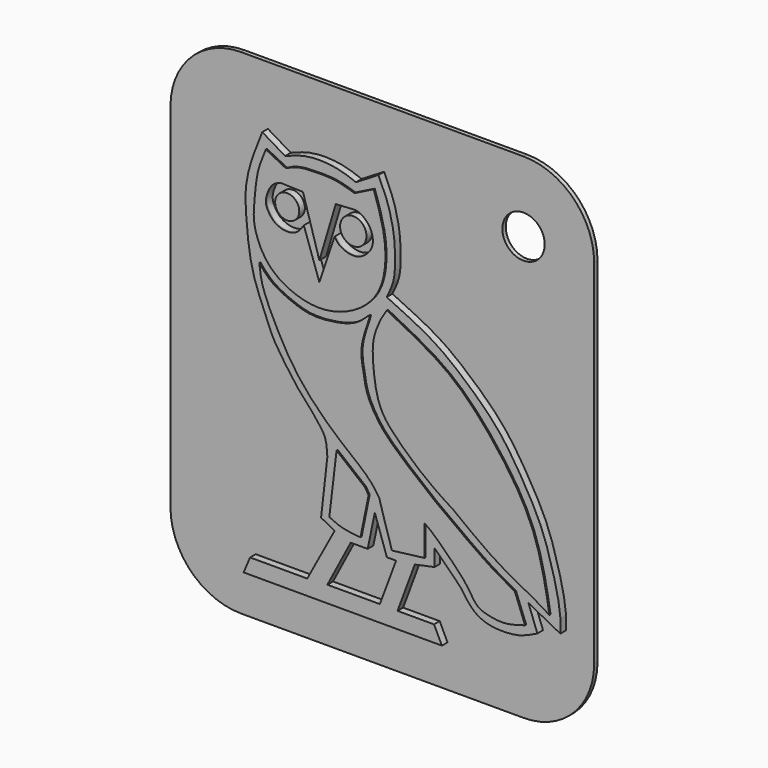
from build123d import *

# Parameters (mm, degrees)
F1_DEPTH  = 1.27
F0_R      = 2.3755805537
F0_R_2    = 1.7436255196
F0_R_3    = 2.1696745923
F0_R_4    = 1.6171802406
F2_DEPTH  = 0.254
F3_DEPTH  = 0.254
F4_DEPTH  = 0.254
F5_DEPTH  = 25.4
F6_DEPTH  = 0.254
F7_W      = 81.28
F7_H      = 81.28
F8_DEPTH  = 0.762
F11_DEPTH = 0.762
F12_R     = 3.81
F13_DEPTH = 25.4


with BuildPart() as f1:
    # F0 (on Front) → F1 (new body)
    with BuildSketch(Plane.XZ):
        with BuildLine():
            Line((-22.4319845438, -30.723689124), (-23.5951635987, -33.4686301649))
            Line((-23.5951635987, -33.4686301649), (12.0620513335, -33.4686301649))
            Line((12.0620513335, -33.4686301649), (10.6545295566, -30.5597539991))
            Line((10.6545295566, -30.5597539991), (4.0860949084, -30.5597539991))
            Line((4.0860949084, -30.5597539991), (7.1826418862, -22.2084578127))
            Line((7.1826418862, -22.2084578127), (10.7483640313, -21.4577801526))
            Line((10.7483640313, -21.4577801526), (10.7483640313, -18.4550676495))
            Line((10.7483640313, -18.4550676495), (15.5339371413, -23.2406407595))
            add(Edge.make_bspline(
                [(15.5339371413, -23.2406407595), (16.2170642467, -24.2737822638), (17.5637495618, -26.3104698458), (20.7889507092, -27.7181511342), (24.5489099064, -27.6458058884), (26.7077016093, -27.1861896151), (28.3604926743, -26.385125921), (29.2338151485, -25.9618498385)],
                knots=[0, 0, 0, 0, 0.2155758073, 0.4249762185, 0.6422123744, 0.8109476866, 1, 1, 1, 1], degree=3))
            Line((29.2338151485, -25.9618498385), (27.6386234909, -21.6454491019))
            Line((27.6386234909, -21.6454491019), (33.362545073, -24.6481634676))
            add(Edge.make_bspline(
                [(33.362545073, -24.6481634676), (33.3983814219, -23.79400888), (33.4774361156, -21.9097508186), (32.7735684058, -18.0164807649), (31.6154622475, -13.7192435111), (29.9932863397, -8.4590985446), (26.3636779879, -1.9734620285), (22.1047336684, 4.6305528517), (15.7507719018, 10.3866892178), (10.4413872747, 14.5950490489), (5.0479724732, 17.133720348), (2.1495805122, 18.4979885817)],
                knots=[0, 0, 0, 0, 0.073957449, 0.1631495299, 0.2585647773, 0.3641279543, 0.4869383551, 0.614770024, 0.7456980838, 0.8633395248, 1, 1, 1, 1], degree=3))
            add(Edge.make_bspline(
                [(0.660961261, 37.3400337994), (1.2701700964, 36.0164792944), (2.5192527373, 33.3027482046), (3.6025517613, 28.6370387593), (3.706864651, 23.9001582777), (3.4158594005, 21.1246763188), (2.5742545248, 19.3789051251), (2.1495805122, 18.4979885817)],
                knots=[0, 0, 0, 0, 0.2138249001, 0.4384128323, 0.6591675711, 0.8280158785, 1, 1, 1, 1], degree=3))
            Line((0.660961261, 37.3400337994), (-3.3864621073, 34.8850376904))
            add(Edge.make_bspline(
                [(-16.1258932203, 34.8850376904), (-14.9172431536, 35.3645818674), (-12.3475667783, 36.3841270413), (-7.1083525042, 36.2598945833), (-4.572600428, 35.3231941841), (-3.3864621073, 34.8850376904)],
                knots=[0, 0, 0, 0, 0.3209505721, 0.6823638416, 1, 1, 1, 1], degree=3))
            Line((-16.1258932203, 34.8850376904), (-20.239667967, 37.3400337994))
            add(Edge.make_bspline(
                [(-8.534184657, -10.2639012039), (-8.5928049829, -9.2328646036), (-8.7034771217, -7.2863209048), (-10.175358865, -5.3664854445), (-11.720063048, -3.4719212507), (-13.5091857506, -1.5782119534), (-14.6623018027, -0.0349294865), (-18.4073210522, 5.0936617577), (-19.3016881847, 8.0276610704), (-21.7354334199, 13.2025751523), (-22.6645179155, 18.1057347583), (-23.0487408421, 21.8939312277), (-23.4605179965, 27.0080570641), (-22.5141453644, 31.6239296228), (-21.0308418746, 35.3516946395), (-20.239667967, 37.3400337994)],
                knots=[0, 0, 0, 0, 0.0670870399, 0.1266568565, 0.188514524, 0.2498700875, 0.3061037825, 0.4024852594, 0.4740853121, 0.5661258137, 0.6539303542, 0.7304070102, 0.8177323951, 0.9027809385, 1, 1, 1, 1], degree=3))
            Line((-8.534184657, -10.2639012039), (-9.6618566167, -20.2672373394))
            Line((-9.6618566167, -20.2672373394), (-7.2375582531, -21.5672235936))
            Line((-7.2375582531, -21.5672235936), (-12.1475476772, -30.723689124))
            Line((-12.1475476772, -30.723689124), (-22.4319845438, -30.723689124))
        make_face()
        Polygon((0.9068368236, -30.5203571916), (-8.534184657, -30.5203571916), (-4.3349084444, -22.4918611348), (-1.2827530736, -22.4918611348), (0, -16.3211990148), (2.1675094031, -22.6909145713), (3.8262906019, -22.6909145713), align=None, mode=Mode.SUBTRACT)
        with BuildLine():
            Line((-7.9790335149, -19.5290669799), (-6.6770957783, -8.5612265393))
            Line((-6.6770957783, -8.5612265393), (-1.5877020778, -12.7037568018))
            add(Edge.make_bspline(
                [(-0.9170069243, -13.7689784169), (-1.1405719755, -13.4139045452), (-1.3641370266, -13.0588306735), (-1.5877020778, -12.7037568018)],
                knots=[0, 0, 0, 0, 1.2587807904, 1.2587807904, 1.2587807904, 1.2587807904], degree=3))
            Line((-0.9170069243, -13.7689784169), (-2.376755001, -20.9099110216))
            add(Edge.make_bspline(
                [(-7.9790335149, -19.5290669799), (-7.212663535, -19.8886434845), (-5.590490635, -20.6497579288), (-3.4866626595, -20.8200635845), (-2.376755001, -20.9099110216)],
                knots=[0, 0, 0, 0, 0.4724342145, 1, 1, 1, 1], degree=3))
        make_face(mode=Mode.SUBTRACT)
        with BuildLine():
            add(Edge.make_bspline(
                [(-20.5701012164, 16.6281200945), (-20.4580163872, 15.5479890519), (-20.1932337587, 12.9963508091), (-17.2879572246, 6.9512579497), (-13.8888048952, 0.8865421726), (-7.5470582079, -5.8850249513), (-0.8776420893, -10.7052947273), (0.4744759225, -12.7755692975), (0.9944476187, -13.5717159137)],
                knots=[0, 0, 0, 0, 0.1265618696, 0.29898234, 0.4790221388, 0.6868533384, 0.8795760434, 1, 1, 1, 1], degree=3))
            add(Edge.make_bspline(
                [(25.3985747695, -20.4718206078), (23.9909343523, -19.6993303528), (20.9104904166, -18.0088326289), (14.9142005683, -13.7045978395), (10.148670011, -10.2335193858), (3.7420710252, -4.8206212983), (1.1209129613, -2.1016958477), (-1.2910071979, 1.8301877143), (-1.83517862, 5.4981255643), (-2.7234780246, 9.701027269), (0.1890709456, 16.1816627289), (-2.6939901898, 12.5530242264), (-7.2169961075, 11.5255686089), (-11.2466479007, 11.2695370648), (-14.4090866301, 12.2259555065), (-18.4496840883, 14.0290748529), (-19.8954618758, 15.8011987568), (-20.5701012164, 16.6281200945)],
                knots=[0, 0, 0, 0, 0.0703770784, 0.1540113808, 0.232314889, 0.3212306482, 0.3829991475, 0.4478976269, 0.5071404687, 0.5754309224, 0.6429832564, 0.6902538499, 0.7600197659, 0.8220783132, 0.8785962374, 0.9433496938, 1, 1, 1, 1], degree=3))
            Line((25.3985747695, -20.4718206078), (27.2232331336, -25.2159312367))
            add(Edge.make_bspline(
                [(9.1404430568, -14.9107836187), (9.5343874235, -15.1776200076), (10.6053991952, -15.9030648619), (14.1809466517, -19.4360625732), (16.7465677925, -22.062227409), (18.3368992917, -25.0255591718), (20.2627668016, -25.7557413928), (23.521300134, -26.3738843053), (25.9472305513, -25.6150608552), (27.2232331336, -25.2159312367)],
                knots=[0, 0, 0, 0, 0.1043639893, 0.2837331118, 0.4440469968, 0.5856044411, 0.6973783935, 0.8408256277, 1, 1, 1, 1], degree=3))
            Line((9.1404430568, -14.9107836187), (9.1404430568, -20.4344373196))
            Line((9.1404430568, -20.4344373196), (3.2820217311, -21.1597662419))
            Line((3.2820217311, -21.1597662419), (2.0545432344, -17.1983577311))
            Line((2.0545432344, -17.1983577311), (0.9944476187, -13.5717159137))
        make_face(mode=Mode.SUBTRACT)
        with BuildLine():
            Line((1.2394806836, 14.7390337661), (2.3717877921, 16.5758375078))
            add(Edge.make_bspline(
                [(2.3717877921, 16.5758375078), (5.5986640494, 14.9493173555), (11.8448846869, 11.8008843409), (18.667887524, 5.9051821449), (27.4529704187, -5.4894606728), (30.3627767221, -14.6669235113), (31.2132821157, -19.7858255084), (31.6098108888, -22.1723970026)],
                knots=[0, 0, 0, 0, 0.2038396758, 0.3945696978, 0.6320893902, 0.8284700558, 1, 1, 1, 1], degree=3))
            Line((31.6098108888, -22.1723970026), (28.721537441, -20.4364806414))
            add(Edge.make_bspline(
                [(28.721537441, -20.4364806414), (26.5279326794, -19.3070817296), (21.869091917, -16.9084319002), (16.9163312188, -13.1131467538), (14.2955668271, -11.104863137)],
                knots=[0, 0, 0, 0, 0.4708477652, 1, 1, 1, 1], degree=3))
            add(Edge.make_bspline(
                [(1.2394806836, 14.7390337661), (0.7370990922, 13.6305565547), (-0.3444025149, 11.2442830406), (-0.0939882819, 6.300747873), (0.8115875237, 0.5157339953), (4.2052586256, -3.3261916154), (9.4727435521, -8.0482551356), (12.7437796439, -10.1213717565), (14.2955668271, -11.104863137)],
                knots=[0, 0, 0, 0, 0.1392443183, 0.2997581054, 0.472271083, 0.6348154199, 0.8267555799, 1, 1, 1, 1], degree=3))
        make_face(mode=Mode.SUBTRACT)
        with BuildLine():
            add(Edge.make_bspline(
                [(-19.4009207189, 34.9667780101), (-19.9557315561, 33.6352025992), (-21.0410497783, 31.0303813506), (-21.318867027, 27.1390406588), (-21.8677365411, 22.8377158108), (-20.2743714086, 18.516743898), (-17.7655911196, 15.4934677861), (-13.5516717096, 13.3150318546), (-8.3571599588, 12.6327872232), (-2.6314681715, 14.7245741603), (1.2109604253, 18.7366138718), (2.1747660842, 23.3371052094), (2.1137830282, 26.8610942784), (1.5157977796, 30.3872533364), (0.5321313747, 33.3591039568), (0, 34.9667780101)],
                knots=[0, 0, 0, 0, 0.0751192189, 0.1469478454, 0.2225539982, 0.2995396956, 0.3710957258, 0.449175144, 0.5319474519, 0.6208003424, 0.7054226964, 0.7830765905, 0.8509758521, 0.9193828067, 1, 1, 1, 1], degree=3))
            Line((-19.4009207189, 34.9667780101), (-15.7914478332, 33.1620387733))
            add(Edge.make_bspline(
                [(-15.7914478332, 33.1620387733), (-15.1386994741, 33.4800311883), (-13.6949017116, 34.1833906543), (-10.3199747266, 34.3127726647), (-6.8945332054, 34.3169253934), (-4.6103167731, 33.5990462264), (-3.4590791911, 33.2372374833)],
                knots=[0, 0, 0, 0, 0.2124897629, 0.4700007897, 0.7328821381, 1, 1, 1, 1], degree=3))
            Line((-3.4590791911, 33.2372374833), (0, 34.9667780101))
        make_face(mode=Mode.SUBTRACT)
        with BuildLine():
            add(Edge.make_bspline(
                [(2.3717877921, 16.5758375078), (5.5986640494, 14.9493173555), (11.8448846869, 11.8008843409), (18.667887524, 5.9051821449), (27.4529704187, -5.4894606728), (30.3627767221, -14.6669235113), (31.2132821157, -19.7858255084), (31.6098108888, -22.1723970026)],
                knots=[0, 0, 0, 0, 0.2038396758, 0.3945696978, 0.6320893902, 0.8284700558, 1, 1, 1, 1], degree=3))
            Line((2.3717877921, 16.5758375078), (1.2394806836, 14.7390337661))
            add(Edge.make_bspline(
                [(1.2394806836, 14.7390337661), (0.7370990922, 13.6305565547), (-0.3444025149, 11.2442830406), (-0.0939882819, 6.300747873), (0.8115875237, 0.5157339953), (4.2052586256, -3.3261916154), (9.4727435521, -8.0482551356), (12.7437796439, -10.1213717565), (14.2955668271, -11.104863137)],
                knots=[0, 0, 0, 0, 0.1392443183, 0.2997581054, 0.472271083, 0.6348154199, 0.8267555799, 1, 1, 1, 1], degree=3))
            add(Edge.make_bspline(
                [(28.721537441, -20.4364806414), (26.5279326794, -19.3070817296), (21.869091917, -16.9084319002), (16.9163312188, -13.1131467538), (14.2955668271, -11.104863137)],
                knots=[0, 0, 0, 0, 0.4708477652, 1, 1, 1, 1], degree=3))
            Line((28.721537441, -20.4364806414), (31.6098108888, -22.1723970026))
        make_face()
        with BuildLine():
            add(Edge.make_bspline(
                [(25.3985747695, -20.4718206078), (23.9909343523, -19.6993303528), (20.9104904166, -18.0088326289), (14.9142005683, -13.7045978395), (10.148670011, -10.2335193858), (3.7420710252, -4.8206212983), (1.1209129613, -2.1016958477), (-1.2910071979, 1.8301877143), (-1.83517862, 5.4981255643), (-2.7234780246, 9.701027269), (0.1890709456, 16.1816627289), (-2.6939901898, 12.5530242264), (-7.2169961075, 11.5255686089), (-11.2466479007, 11.2695370648), (-14.4090866301, 12.2259555065), (-18.4496840883, 14.0290748529), (-19.8954618758, 15.8011987568), (-20.5701012164, 16.6281200945)],
                knots=[0, 0, 0, 0, 0.0703770784, 0.1540113808, 0.232314889, 0.3212306482, 0.3829991475, 0.4478976269, 0.5071404687, 0.5754309224, 0.6429832564, 0.6902538499, 0.7600197659, 0.8220783132, 0.8785962374, 0.9433496938, 1, 1, 1, 1], degree=3))
            add(Edge.make_bspline(
                [(-20.5701012164, 16.6281200945), (-20.4580163872, 15.5479890519), (-20.1932337587, 12.9963508091), (-17.2879572246, 6.9512579497), (-13.8888048952, 0.8865421726), (-7.5470582079, -5.8850249513), (-0.8776420893, -10.7052947273), (0.4744759225, -12.7755692975), (0.9944476187, -13.5717159137)],
                knots=[0, 0, 0, 0, 0.1265618696, 0.29898234, 0.4790221388, 0.6868533384, 0.8795760434, 1, 1, 1, 1], degree=3))
            Line((0.9944476187, -13.5717159137), (2.0545432344, -17.1983577311))
            Line((2.0545432344, -17.1983577311), (3.2820217311, -21.1597662419))
            Line((3.2820217311, -21.1597662419), (9.1404430568, -20.4344373196))
            Line((9.1404430568, -20.4344373196), (9.1404430568, -14.9107836187))
            add(Edge.make_bspline(
                [(9.1404430568, -14.9107836187), (9.5343874235, -15.1776200076), (10.6053991952, -15.9030648619), (14.1809466517, -19.4360625732), (16.7465677925, -22.062227409), (18.3368992917, -25.0255591718), (20.2627668016, -25.7557413928), (23.521300134, -26.3738843053), (25.9472305513, -25.6150608552), (27.2232331336, -25.2159312367)],
                knots=[0, 0, 0, 0, 0.1043639893, 0.2837331118, 0.4440469968, 0.5856044411, 0.6973783935, 0.8408256277, 1, 1, 1, 1], degree=3))
            Line((27.2232331336, -25.2159312367), (25.3985747695, -20.4718206078))
        make_face()
        with BuildLine():
            Line((-15.7914478332, 33.1620387733), (-19.4009207189, 34.9667780101))
            add(Edge.make_bspline(
                [(-19.4009207189, 34.9667780101), (-19.9557315561, 33.6352025992), (-21.0410497783, 31.0303813506), (-21.318867027, 27.1390406588), (-21.8677365411, 22.8377158108), (-20.2743714086, 18.516743898), (-17.7655911196, 15.4934677861), (-13.5516717096, 13.3150318546), (-8.3571599588, 12.6327872232), (-2.6314681715, 14.7245741603), (1.2109604253, 18.7366138718), (2.1747660842, 23.3371052094), (2.1137830282, 26.8610942784), (1.5157977796, 30.3872533364), (0.5321313747, 33.3591039568), (0, 34.9667780101)],
                knots=[0, 0, 0, 0, 0.0751192189, 0.1469478454, 0.2225539982, 0.2995396956, 0.3710957258, 0.449175144, 0.5319474519, 0.6208003424, 0.7054226964, 0.7830765905, 0.8509758521, 0.9193828067, 1, 1, 1, 1], degree=3))
            Line((0, 34.9667780101), (-3.4590791911, 33.2372374833))
            add(Edge.make_bspline(
                [(-15.7914478332, 33.1620387733), (-15.1386994741, 33.4800311883), (-13.6949017116, 34.1833906543), (-10.3199747266, 34.3127726647), (-6.8945332054, 34.3169253934), (-4.6103167731, 33.5990462264), (-3.4590791911, 33.2372374833)],
                knots=[0, 0, 0, 0, 0.2124897629, 0.4700007897, 0.7328821381, 1, 1, 1, 1], degree=3))
        make_face()
        with BuildLine():
            Line((-12.7138160169, 30.4102208465), (-9.7715500742, 20.5287318677))
            Line((-9.7715500742, 20.5287318677), (-6.8205171265, 30.4102208465))
            Line((-6.8205171265, 30.4102208465), (-3.2765462529, 30.6189581752))
            add(Edge.make_bspline(
                [(-7.0440801792, 25.1788441092), (-6.7902126103, 24.7910611815), (-6.2181092731, 23.9171728467), (-3.9176445307, 23.063910878), (-1.9533555561, 23.5431559008), (-0.0052420615, 25.4858639625), (-0.1432494165, 27.8835239493), (-1.0967607098, 29.4473881769), (-2.3531817967, 30.4279220939), (-2.996708325, 30.5610621399), (-3.2765462529, 30.6189581752)],
                knots=[0, 0, 0, 0, 0.1123021969, 0.25307865, 0.3838188273, 0.5319607958, 0.6707100725, 0.7963354755, 0.9114363495, 1, 1, 1, 1], degree=3))
            Line((-7.0440801792, 25.1788441092), (-9.7715500742, 17.085859552))
            Line((-9.7715500742, 17.085859552), (-12.563421391, 25.1788441092))
            add(Edge.make_bspline(
                [(-12.563421391, 25.1788441092), (-12.9165395341, 24.6439302599), (-13.6298100919, 23.5634468378), (-15.6533514293, 22.9939669377), (-17.8673392004, 23.7632050463), (-18.908092104, 25.1476307211), (-19.6669242413, 26.710995127), (-18.8431896392, 29.0129002952), (-17.9568853586, 30.0864586134), (-17.1496897693, 30.3929324798), (-16.7570263147, 30.542017892)],
                knots=[0, 0, 0, 0, 0.1286448357, 0.2598523342, 0.4000396715, 0.5218220889, 0.6423624312, 0.785497689, 0.8956545111, 1, 1, 1, 1], degree=3))
            Line((-16.7570263147, 30.542017892), (-12.7138160169, 30.4102208465))
        make_face(mode=Mode.SUBTRACT)
        Polygon((-4.3349084444, -22.4918611348), (-8.534184657, -30.5203571916), (0.9068368236, -30.5203571916), (3.8262906019, -22.6909145713), (2.1675094031, -22.6909145713), (0, -16.3211990148), (-1.2827530736, -22.4918611348), align=None)
        with BuildLine():
            Line((-1.5877020778, -12.7037568018), (-6.6770957783, -8.5612265393))
            Line((-6.6770957783, -8.5612265393), (-7.9790335149, -19.5290669799))
            add(Edge.make_bspline(
                [(-7.9790335149, -19.5290669799), (-7.212663535, -19.8886434845), (-5.590490635, -20.6497579288), (-3.4866626595, -20.8200635845), (-2.376755001, -20.9099110216)],
                knots=[0, 0, 0, 0, 0.4724342145, 1, 1, 1, 1], degree=3))
            Line((-2.376755001, -20.9099110216), (-0.9170069243, -13.7689784169))
            add(Edge.make_bspline(
                [(-0.9170069243, -13.7689784169), (-1.1405719755, -13.4139045452), (-1.3641370266, -13.0588306735), (-1.5877020778, -12.7037568018)],
                knots=[0, 0, 0, 0, 1.2587807904, 1.2587807904, 1.2587807904, 1.2587807904], degree=3))
        make_face()
    extrude(amount=-F1_DEPTH)

    # F0 (on Front) → F2 (join)
    with BuildSketch(Plane.XZ):
        with BuildLine():
            add(Edge.make_bspline(
                [(25.3985747695, -20.4718206078), (23.9909343523, -19.6993303528), (20.9104904166, -18.0088326289), (14.9142005683, -13.7045978395), (10.148670011, -10.2335193858), (3.7420710252, -4.8206212983), (1.1209129613, -2.1016958477), (-1.2910071979, 1.8301877143), (-1.83517862, 5.4981255643), (-2.7234780246, 9.701027269), (0.1890709456, 16.1816627289), (-2.6939901898, 12.5530242264), (-7.2169961075, 11.5255686089), (-11.2466479007, 11.2695370648), (-14.4090866301, 12.2259555065), (-18.4496840883, 14.0290748529), (-19.8954618758, 15.8011987568), (-20.5701012164, 16.6281200945)],
                knots=[0, 0, 0, 0, 0.0703770784, 0.1540113808, 0.232314889, 0.3212306482, 0.3829991475, 0.4478976269, 0.5071404687, 0.5754309224, 0.6429832564, 0.6902538499, 0.7600197659, 0.8220783132, 0.8785962374, 0.9433496938, 1, 1, 1, 1], degree=3))
            add(Edge.make_bspline(
                [(-20.5701012164, 16.6281200945), (-20.4580163872, 15.5479890519), (-20.1932337587, 12.9963508091), (-17.2879572246, 6.9512579497), (-13.8888048952, 0.8865421726), (-7.5470582079, -5.8850249513), (-0.8776420893, -10.7052947273), (0.4744759225, -12.7755692975), (0.9944476187, -13.5717159137)],
                knots=[0, 0, 0, 0, 0.1265618696, 0.29898234, 0.4790221388, 0.6868533384, 0.8795760434, 1, 1, 1, 1], degree=3))
            Line((0.9944476187, -13.5717159137), (2.0545432344, -17.1983577311))
            Line((2.0545432344, -17.1983577311), (3.2820217311, -21.1597662419))
            Line((3.2820217311, -21.1597662419), (9.1404430568, -20.4344373196))
            Line((9.1404430568, -20.4344373196), (9.1404430568, -14.9107836187))
            add(Edge.make_bspline(
                [(9.1404430568, -14.9107836187), (9.5343874235, -15.1776200076), (10.6053991952, -15.9030648619), (14.1809466517, -19.4360625732), (16.7465677925, -22.062227409), (18.3368992917, -25.0255591718), (20.2627668016, -25.7557413928), (23.521300134, -26.3738843053), (25.9472305513, -25.6150608552), (27.2232331336, -25.2159312367)],
                knots=[0, 0, 0, 0, 0.1043639893, 0.2837331118, 0.4440469968, 0.5856044411, 0.6973783935, 0.8408256277, 1, 1, 1, 1], degree=3))
            Line((27.2232331336, -25.2159312367), (25.3985747695, -20.4718206078))
        make_face()
    extrude(amount=F2_DEPTH)

    # F0 (on Front) → F3 (join)
    with BuildSketch(Plane.XZ):
        with BuildLine():
            add(Edge.make_bspline(
                [(2.3717877921, 16.5758375078), (5.5986640494, 14.9493173555), (11.8448846869, 11.8008843409), (18.667887524, 5.9051821449), (27.4529704187, -5.4894606728), (30.3627767221, -14.6669235113), (31.2132821157, -19.7858255084), (31.6098108888, -22.1723970026)],
                knots=[0, 0, 0, 0, 0.2038396758, 0.3945696978, 0.6320893902, 0.8284700558, 1, 1, 1, 1], degree=3))
            Line((2.3717877921, 16.5758375078), (1.2394806836, 14.7390337661))
            add(Edge.make_bspline(
                [(1.2394806836, 14.7390337661), (0.7370990922, 13.6305565547), (-0.3444025149, 11.2442830406), (-0.0939882819, 6.300747873), (0.8115875237, 0.5157339953), (4.2052586256, -3.3261916154), (9.4727435521, -8.0482551356), (12.7437796439, -10.1213717565), (14.2955668271, -11.104863137)],
                knots=[0, 0, 0, 0, 0.1392443183, 0.2997581054, 0.472271083, 0.6348154199, 0.8267555799, 1, 1, 1, 1], degree=3))
            add(Edge.make_bspline(
                [(28.721537441, -20.4364806414), (26.5279326794, -19.3070817296), (21.869091917, -16.9084319002), (16.9163312188, -13.1131467538), (14.2955668271, -11.104863137)],
                knots=[0, 0, 0, 0, 0.4708477652, 1, 1, 1, 1], degree=3))
            Line((28.721537441, -20.4364806414), (31.6098108888, -22.1723970026))
        make_face()
    extrude(amount=F3_DEPTH)

    # F0 (on Front) → F4 (join)
    with BuildSketch(Plane.XZ):
        with BuildLine():
            Line((-15.7914478332, 33.1620387733), (-19.4009207189, 34.9667780101))
            add(Edge.make_bspline(
                [(-19.4009207189, 34.9667780101), (-19.9557315561, 33.6352025992), (-21.0410497783, 31.0303813506), (-21.318867027, 27.1390406588), (-21.8677365411, 22.8377158108), (-20.2743714086, 18.516743898), (-17.7655911196, 15.4934677861), (-13.5516717096, 13.3150318546), (-8.3571599588, 12.6327872232), (-2.6314681715, 14.7245741603), (1.2109604253, 18.7366138718), (2.1747660842, 23.3371052094), (2.1137830282, 26.8610942784), (1.5157977796, 30.3872533364), (0.5321313747, 33.3591039568), (0, 34.9667780101)],
                knots=[0, 0, 0, 0, 0.0751192189, 0.1469478454, 0.2225539982, 0.2995396956, 0.3710957258, 0.449175144, 0.5319474519, 0.6208003424, 0.7054226964, 0.7830765905, 0.8509758521, 0.9193828067, 1, 1, 1, 1], degree=3))
            Line((0, 34.9667780101), (-3.4590791911, 33.2372374833))
            add(Edge.make_bspline(
                [(-15.7914478332, 33.1620387733), (-15.1386994741, 33.4800311883), (-13.6949017116, 34.1833906543), (-10.3199747266, 34.3127726647), (-6.8945332054, 34.3169253934), (-4.6103167731, 33.5990462264), (-3.4590791911, 33.2372374833)],
                knots=[0, 0, 0, 0, 0.2124897629, 0.4700007897, 0.7328821381, 1, 1, 1, 1], degree=3))
        make_face()
        with BuildLine():
            Line((-12.7138160169, 30.4102208465), (-9.7715500742, 20.5287318677))
            Line((-9.7715500742, 20.5287318677), (-6.8205171265, 30.4102208465))
            Line((-6.8205171265, 30.4102208465), (-3.2765462529, 30.6189581752))
            add(Edge.make_bspline(
                [(-7.0440801792, 25.1788441092), (-6.7902126103, 24.7910611815), (-6.2181092731, 23.9171728467), (-3.9176445307, 23.063910878), (-1.9533555561, 23.5431559008), (-0.0052420615, 25.4858639625), (-0.1432494165, 27.8835239493), (-1.0967607098, 29.4473881769), (-2.3531817967, 30.4279220939), (-2.996708325, 30.5610621399), (-3.2765462529, 30.6189581752)],
                knots=[0, 0, 0, 0, 0.1123021969, 0.25307865, 0.3838188273, 0.5319607958, 0.6707100725, 0.7963354755, 0.9114363495, 1, 1, 1, 1], degree=3))
            Line((-7.0440801792, 25.1788441092), (-9.7715500742, 17.085859552))
            Line((-9.7715500742, 17.085859552), (-12.563421391, 25.1788441092))
            add(Edge.make_bspline(
                [(-12.563421391, 25.1788441092), (-12.9165395341, 24.6439302599), (-13.6298100919, 23.5634468378), (-15.6533514293, 22.9939669377), (-17.8673392004, 23.7632050463), (-18.908092104, 25.1476307211), (-19.6669242413, 26.710995127), (-18.8431896392, 29.0129002952), (-17.9568853586, 30.0864586134), (-17.1496897693, 30.3929324798), (-16.7570263147, 30.542017892)],
                knots=[0, 0, 0, 0, 0.1286448357, 0.2598523342, 0.4000396715, 0.5218220889, 0.6423624312, 0.785497689, 0.8956545111, 1, 1, 1, 1], degree=3))
            Line((-16.7570263147, 30.542017892), (-12.7138160169, 30.4102208465))
        make_face(mode=Mode.SUBTRACT)
    extrude(amount=F4_DEPTH)

    # F0 (on Front) → F5 (cut)
    with BuildSketch(Plane.XZ):
        Polygon((-4.3349084444, -22.4918611348), (-8.534184657, -30.5203571916), (0.9068368236, -30.5203571916), (3.8262906019, -22.6909145713), (2.1675094031, -22.6909145713), (0, -16.3211990148), (-1.2827530736, -22.4918611348), align=None)
    extrude(amount=-F5_DEPTH, mode=Mode.SUBTRACT)

    # F0 (on Front) → F6 (join)
    with BuildSketch(Plane.XZ):
        with BuildLine():
            Line((-1.5877020778, -12.7037568018), (-6.6770957783, -8.5612265393))
            Line((-6.6770957783, -8.5612265393), (-7.9790335149, -19.5290669799))
            add(Edge.make_bspline(
                [(-7.9790335149, -19.5290669799), (-7.212663535, -19.8886434845), (-5.590490635, -20.6497579288), (-3.4866626595, -20.8200635845), (-2.376755001, -20.9099110216)],
                knots=[0, 0, 0, 0, 0.4724342145, 1, 1, 1, 1], degree=3))
            Line((-2.376755001, -20.9099110216), (-0.9170069243, -13.7689784169))
            add(Edge.make_bspline(
                [(-0.9170069243, -13.7689784169), (-1.1405719755, -13.4139045452), (-1.3641370266, -13.0588306735), (-1.5877020778, -12.7037568018)],
                knots=[0, 0, 0, 0, 1.2587807904, 1.2587807904, 1.2587807904, 1.2587807904], degree=3))
        make_face()
        with BuildLine():
            add(Edge.make_bspline(
                [(25.3985747695, -20.4718206078), (23.9909343523, -19.6993303528), (20.9104904166, -18.0088326289), (14.9142005683, -13.7045978395), (10.148670011, -10.2335193858), (3.7420710252, -4.8206212983), (1.1209129613, -2.1016958477), (-1.2910071979, 1.8301877143), (-1.83517862, 5.4981255643), (-2.7234780246, 9.701027269), (0.1890709456, 16.1816627289), (-2.6939901898, 12.5530242264), (-7.2169961075, 11.5255686089), (-11.2466479007, 11.2695370648), (-14.4090866301, 12.2259555065), (-18.4496840883, 14.0290748529), (-19.8954618758, 15.8011987568), (-20.5701012164, 16.6281200945)],
                knots=[0, 0, 0, 0, 0.0703770784, 0.1540113808, 0.232314889, 0.3212306482, 0.3829991475, 0.4478976269, 0.5071404687, 0.5754309224, 0.6429832564, 0.6902538499, 0.7600197659, 0.8220783132, 0.8785962374, 0.9433496938, 1, 1, 1, 1], degree=3))
            add(Edge.make_bspline(
                [(-20.5701012164, 16.6281200945), (-20.4580163872, 15.5479890519), (-20.1932337587, 12.9963508091), (-17.2879572246, 6.9512579497), (-13.8888048952, 0.8865421726), (-7.5470582079, -5.8850249513), (-0.8776420893, -10.7052947273), (0.4744759225, -12.7755692975), (0.9944476187, -13.5717159137)],
                knots=[0, 0, 0, 0, 0.1265618696, 0.29898234, 0.4790221388, 0.6868533384, 0.8795760434, 1, 1, 1, 1], degree=3))
            Line((0.9944476187, -13.5717159137), (2.0545432344, -17.1983577311))
            Line((2.0545432344, -17.1983577311), (3.2820217311, -21.1597662419))
            Line((3.2820217311, -21.1597662419), (9.1404430568, -20.4344373196))
            Line((9.1404430568, -20.4344373196), (9.1404430568, -14.9107836187))
            add(Edge.make_bspline(
                [(9.1404430568, -14.9107836187), (9.5343874235, -15.1776200076), (10.6053991952, -15.9030648619), (14.1809466517, -19.4360625732), (16.7465677925, -22.062227409), (18.3368992917, -25.0255591718), (20.2627668016, -25.7557413928), (23.521300134, -26.3738843053), (25.9472305513, -25.6150608552), (27.2232331336, -25.2159312367)],
                knots=[0, 0, 0, 0, 0.1043639893, 0.2837331118, 0.4440469968, 0.5856044411, 0.6973783935, 0.8408256277, 1, 1, 1, 1], degree=3))
            Line((27.2232331336, -25.2159312367), (25.3985747695, -20.4718206078))
        make_face()
    extrude(amount=F6_DEPTH)


with BuildPart() as f1b:
    # F0 (on Front) → F1, piece 2 (new body)
    with BuildSketch(Plane.XZ):
        with Locations((-3.8723102771, 26.9718859345)):
            Circle(F0_R)
        with Locations((-3.8723102771, 26.9718859345)):
            Circle(F0_R_2, mode=Mode.SUBTRACT)
        with Locations((-3.8723102771, 26.9718859345)):
            Circle(F0_R_2)
    extrude(amount=-F1_DEPTH)


with BuildPart() as f1c:
    # F0 (on Front) → F1, piece 3 (new body)
    with BuildSketch(Plane.XZ):
        with Locations((-15.7593097538, 26.9718859345)):
            Circle(F0_R_3)
        with Locations((-15.7593097538, 26.9718859345)):
            Circle(F0_R_4, mode=Mode.SUBTRACT)
        with Locations((-15.7593097538, 26.9718859345)):
            Circle(F0_R_4)
    extrude(amount=-F1_DEPTH)


with BuildPart() as f8:
    # F7 (on Front) → F8 (new body)
    with BuildSketch(Plane.XZ):
        with Locations((-0.1139228487, 4.3430847371)):
            Rectangle(F7_W, F7_H)
    extrude(amount=F8_DEPTH)


with BuildPart() as f11:
    # F10 (on face) → F11 (new body)
    with BuildSketch(Plane(origin=(0, 1.27, 0), x_dir=(-1, 0, 0), z_dir=(0, 1, 0))):
        with BuildLine():
            Line((25.0681525424, 47.9213825762), (-25.7318474576, 47.9213825762))
            ThreePointArc((-25.7318474576, 47.9213825762), (-34.7121035787, 44.2016386973), (-38.4318474576, 35.2213825762))
            Line((-38.4318474576, 35.2213825762), (-38.4318474576, -28.2786174238))
            ThreePointArc((-38.4318474576, -28.2786174238), (-34.7121035787, -37.2588735448), (-25.7318474576, -40.9786174238))
            Line((-25.7318474576, -40.9786174238), (25.0681525424, -40.9786174238))
            ThreePointArc((25.0681525424, -40.9786174238), (34.0484086635, -37.2588735448), (37.7681525424, -28.2786174238))
            Line((37.7681525424, -28.2786174238), (37.7681525424, 35.2213825762))
            ThreePointArc((37.7681525424, 35.2213825762), (34.0484086635, 44.2016386973), (25.0681525424, 47.9213825762))
        make_face()
    extrude(amount=F11_DEPTH)

    # F12 (on face) → F13 (cut)
    with BuildSketch(Plane.XZ.offset(-1.27)):
        with Locations((25.7318474576, 35.2213825762)):
            Circle(F12_R)
    extrude(amount=-F13_DEPTH, mode=Mode.SUBTRACT)


solid = Compound([f1.part, f1b.part, f1c.part, f11.part])
